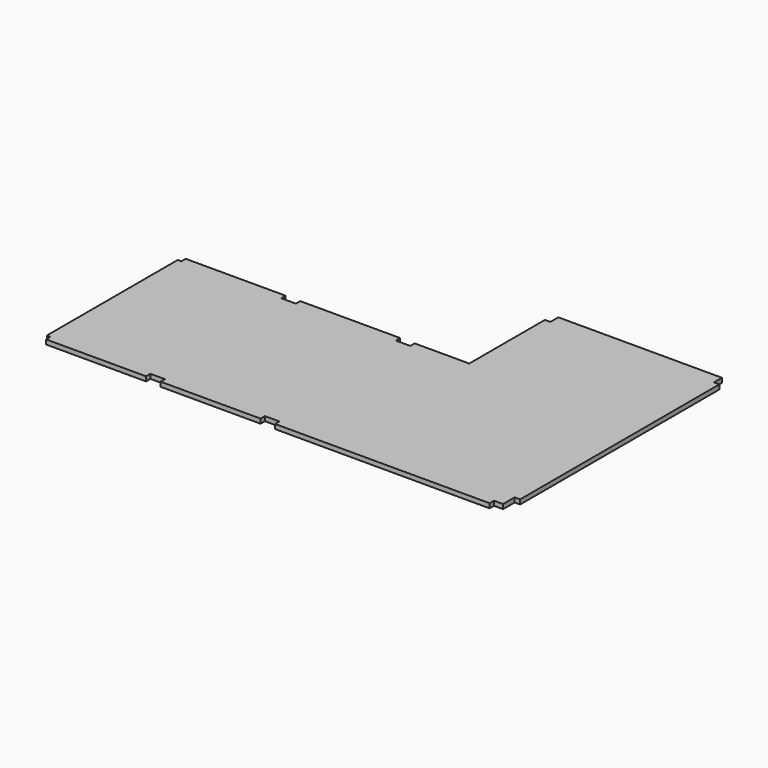
from build123d import *

# Parameters (mm, degrees)
F1_DEPTH = 15.875


with BuildPart() as f1:
    # F0 (on Top) → F1 (new body)
    with BuildSketch(Plane.XY):
        Polygon((-800.1, 0), (-50.8, 0), (-50.8, 19.05), (-19.05, 19.05), (-19.05, 69.85), (0, 69.85), (0, 939.8), (-19.05, 939.8), (-19.05, 974.725), (-590.55, 974.725), (-590.55, 939.8), (-609.6, 939.8), (-609.6, 609.6), (-800.1, 609.6), (-800.1, 590.55), (-850.9, 590.55), (-850.9, 609.6), (-1200.15, 609.6), (-1200.15, 590.55), (-1250.95, 590.55), (-1250.95, 609.6), (-1600.2, 609.6), (-1600.2, 590.55), (-1612.9, 590.55), (-1612.9, 19.05), (-1600.2, 19.05), (-1600.2, 0), (-1250.95, 0), (-1250.95, 19.05), (-1200.15, 19.05), (-1200.15, 0), (-850.9, 0), (-850.9, 19.05), (-800.1, 19.05), align=None)
    extrude(amount=F1_DEPTH)


solid = f1.part
